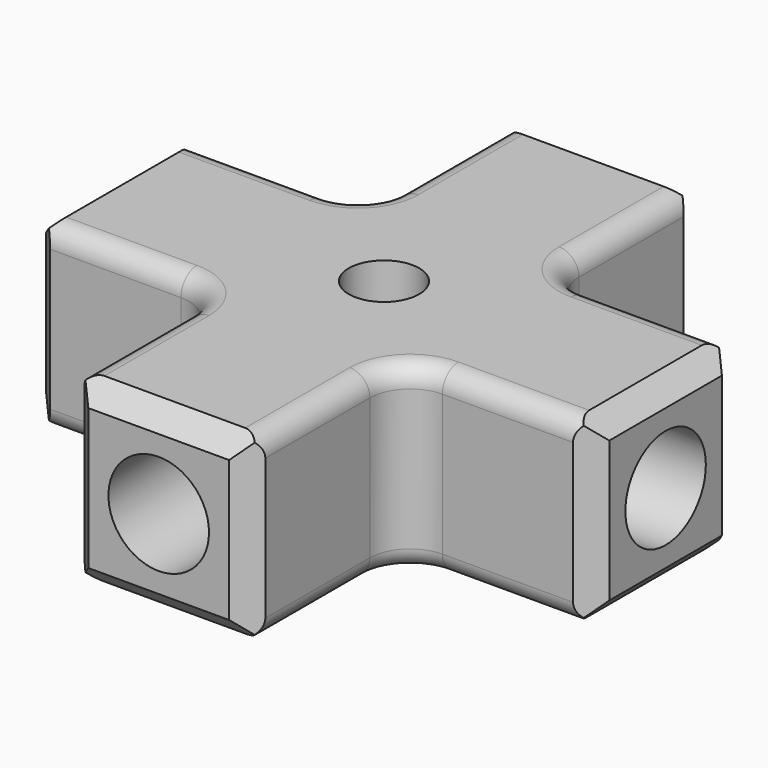
from build123d import *

# Parameters (mm, degrees)
F0_W     = 9
F0_H     = 9.5
F0_W_2   = 9.5
F0_H_2   = 9
F0_R     = 1.75
F1_DEPTH = 9
F4_R     = 2.5
F6_DEPTH = 6.5
F3_R     = 2.5
F7_DEPTH = 6.5
F5_R     = 2.5
F8_DEPTH = 6.5
F2_R     = 2.5
F9_DEPTH = 6.5
F10_R    = 2
F11_SIZE = 1
F12_R    = 1


with BuildPart() as f1:
    # F0 (on Top) → F1 (new body)
    with BuildSketch(Plane.XY):
        with Locations((0, -9.25)):
            Rectangle(F0_W, F0_H)
        with Locations((9.25, 0)):
            Rectangle(F0_W_2, F0_H_2)
        with Locations((-9.25, 0)):
            Rectangle(F0_W_2, F0_H_2)
        with Locations((0, 9.25)):
            Rectangle(F0_W, F0_H)
        Rectangle(F0_W, F0_H_2)
        Circle(F0_R, mode=Mode.SUBTRACT)
    extrude(amount=F1_DEPTH)

    # F4 (on face) → F6 (cut)
    with BuildSketch(Plane(origin=(-14, 0, 0), x_dir=(0, -1, 0), z_dir=(-1, 0, 0))):
        with Locations((0, 4.4999998063)):
            Circle(F4_R)
    extrude(amount=-F6_DEPTH, mode=Mode.SUBTRACT)

    # F3 (on face) → F7 (cut)
    with BuildSketch(Plane.YZ.offset(14)):
        with Locations((0, 4.5)):
            Circle(F3_R)
    extrude(amount=-F7_DEPTH, mode=Mode.SUBTRACT)

    # F5 (on face) → F8 (cut)
    with BuildSketch(Plane.XZ.offset(14)):
        with Locations((0, 4.5042946003)):
            Circle(F5_R)
    extrude(amount=-F8_DEPTH, mode=Mode.SUBTRACT)

    # F2 (on face) → F9 (cut)
    with BuildSketch(Plane(origin=(0, 14, 0), x_dir=(-1, 0, 0), z_dir=(0, 1, 0))):
        with Locations((0, 4.5)):
            Circle(F2_R)
    extrude(amount=-F9_DEPTH, mode=Mode.SUBTRACT)

    # F10
    f10_edges = [f1.edges().sort_by_distance(p)[0] for p in [
        (-4.5, 4.5, 4.5),
        (-4.5, -4.5, 4.5),
        (4.5, -4.5, 4.5),
        (4.5, 4.5, 4.5),
    ]]
    fillet(f10_edges, radius=F10_R)

    # F11
    f11_edges = [f1.edges().sort_by_distance(p)[0] for p in [
        (14, 4.5, 4.5),
        (4.5, 14, 4.5),
        (-4.5, 14, 4.5),
        (-14, 4.5, 4.5),
        (-14, -4.5, 4.5),
        (-4.5, -14, 4.5),
        (4.5, -14, 4.5),
        (14, -4.5, 4.5),
        (14, 0, 0),
        (0, 14, 0),
        (-14, 0, 0),
        (0, -14, 0),
        (-14, 0, 9),
        (0, 14, 9),
        (0, -14, 9),
        (14, 0, 9),
    ]]
    chamfer(f11_edges, length=F11_SIZE)

    # F12
    f12_edges = [f1.edges().sort_by_distance(p)[0] for p in [
        (-9.75, -4.5, 9),
        (-9.75, 4.5, 9),
        (-4.5, -9.75, 9),
        (4.5, -9.75, 9),
        (9.75, -4.5, 9),
        (9.75, 4.5, 9),
        (4.5, 9.75, 9),
        (-4.5, 9.75, 9),
        (-9.75, 4.5, 0),
        (-9.75, -4.5, 0),
        (-4.5, -9.75, 0),
        (4.5, -9.75, 0),
        (9.75, -4.5, 0),
        (9.75, 4.5, 0),
        (4.5, 9.75, 0),
        (-4.5, 9.75, 0),
    ]]
    fillet(f12_edges, radius=F12_R)


solid = f1.part
